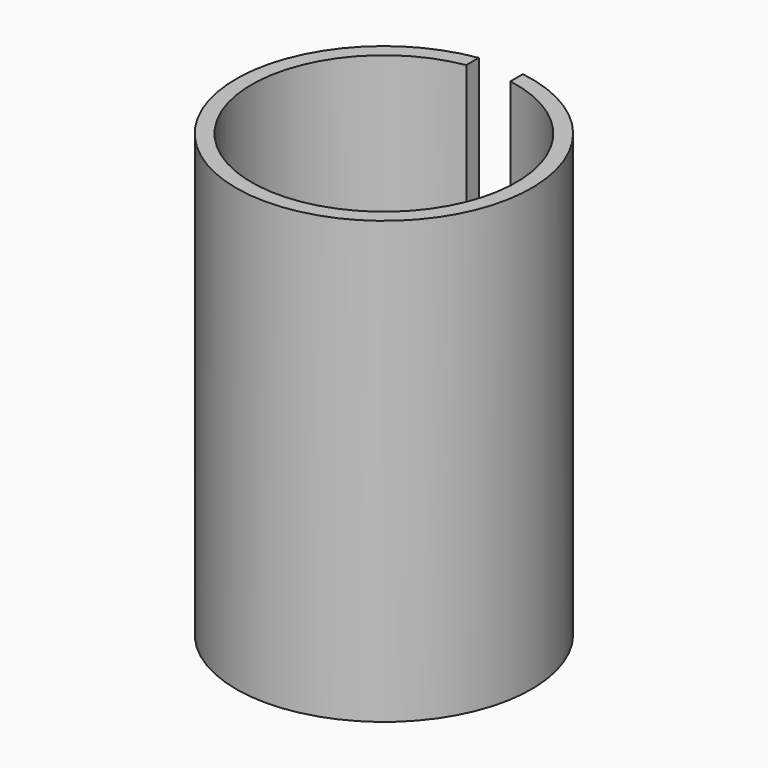
from build123d import *

# Parameters (mm, degrees)
F0_R          = 6.7
F0_R_2        = 6
F1_DEPTH      = 10
F2_W          = 2
F2_H          = 6.7
F3_DEPTH      = 10.001
F3_DEPTH_BACK = 10.001


with BuildPart() as f1:
    # F0 (on Top) → F1 (new body, symmetric)
    with BuildSketch(Plane.XY):
        Circle(F0_R)
        Circle(F0_R_2, mode=Mode.SUBTRACT)
    extrude(amount=F1_DEPTH, both=True)

    # F2 (on Top) → F3 (cut, two sides)
    with BuildSketch(Plane.XY) as f3_sk:
        with Locations((0, 3.35)):
            Rectangle(F2_W, F2_H)
    extrude(amount=-F3_DEPTH, mode=Mode.SUBTRACT)
    extrude(f3_sk.sketch, amount=F3_DEPTH_BACK, mode=Mode.SUBTRACT)


solid = f1.part
